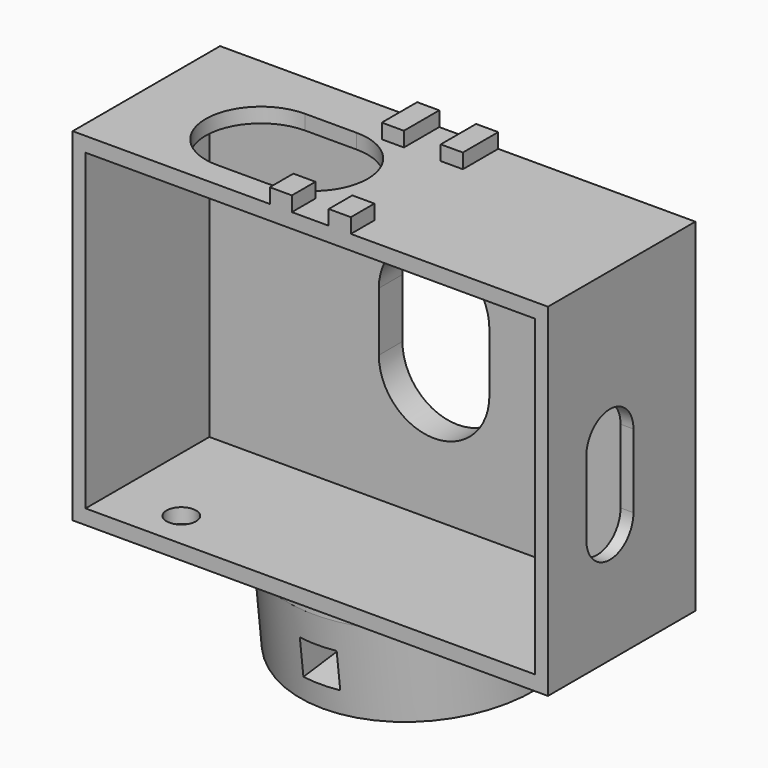
from build123d import *

# Parameters (mm, degrees)
SKETCH_W          = 64.5
SKETCH_H          = 46.5
PAD_DEPTH         = 25
SKETCH001_W       = 61
SKETCH001_H       = 42.5
POCKET_DEPTH      = 21
SKETCH002_R       = 2
POCKET001_DEPTH   = 4
POCKET002_DEPTH   = 2
POCKET003_DEPTH   = 2
SKETCH005_R       = 2
POCKET004_DEPTH   = 2
PAD001_DEPTH      = 10
PAD001_DEPTH_BACK = 2
PAD002_DEPTH      = 1
SKETCH008_R       = 5.5
PAD003_DEPTH      = 4
SKETCH009_W       = 5
SKETCH009_H       = 5
POCKET005_DEPTH   = 49.501
SKETCH010_W       = 5
SKETCH010_H       = 5
POCKET006_DEPTH   = 26.7259364864
SKETCH011_W       = 3
SKETCH011_H       = 6
SKETCH011_H_2     = 4
PAD004_DEPTH      = 2
POCKET007_DEPTH   = 5


with BuildPart() as part:
    # Sketch → Pad (new body)
    with BuildSketch(Plane.XZ):
        Rectangle(SKETCH_W, SKETCH_H)
    extrude(amount=PAD_DEPTH)

    # Sketch001 (on Face6 of Pad) → Pocket (cut)
    with BuildSketch(Plane.XZ.offset(25)):
        Rectangle(SKETCH001_W, SKETCH001_H)
    extrude(amount=-POCKET_DEPTH, mode=Mode.SUBTRACT)

    # Sketch002 (on Face11 of Pocket) → Pocket001 (cut)
    with BuildSketch(Plane.XZ.offset(4)):
        with Locations((24.5, 16.25)):
            Circle(SKETCH002_R)
    extrude(amount=-POCKET001_DEPTH, mode=Mode.SUBTRACT)

    # Sketch003 (on Face3 of Pocket001) → Pocket002 (cut)
    with BuildSketch(Plane(origin=(32.25, 0, 0), x_dir=(0, 0, 1), z_dir=(1, 0, 0))):
        with BuildLine():
            ThreePointArc((-7.25, 18.5), (-11.25, 14.5), (-7.25, 10.5))
            Line((-7.25, 10.5), (2.75, 10.5))
            ThreePointArc((2.75, 10.5), (6.75, 14.5), (2.75, 18.5))
            Line((-7.25, 18.5), (2.75, 18.5))
        make_face()
    extrude(amount=-POCKET002_DEPTH, mode=Mode.SUBTRACT)

    # Sketch004 (on Face1 of Pocket002) → Pocket003 (cut)
    with BuildSketch(Plane(origin=(0, 0, 23.25), x_dir=(-1, 0, 0), z_dir=(0, 0, 1))):
        with BuildLine():
            ThreePointArc((8.5, 21.5), (1, 14), (8.5, 6.5))
            Line((8.5, 6.5), (15.5, 6.5))
            ThreePointArc((15.5, 6.5), (23, 14), (15.5, 21.5))
            Line((8.5, 21.5), (15.5, 21.5))
        make_face()
    extrude(amount=-POCKET003_DEPTH, mode=Mode.SUBTRACT)

    # Sketch005 (on Face10 of Pocket003) → Pocket004 (cut)
    with BuildSketch(Plane(origin=(0, 0, -23.25), x_dir=(1, 0, 0), z_dir=(0, 0, -1))):
        with Locations((-21.5, 20)):
            Circle(SKETCH005_R)
    extrude(amount=-POCKET004_DEPTH, mode=Mode.SUBTRACT)

    # Sketch006 (on DatumPlane) → Pad001 (join, two sides)
    with BuildSketch(Plane(origin=(32.25, 0, -23.25), x_dir=(0, 0.9925461516, 0.1218693434), z_dir=(0, 0.1218693434, -0.9925461516))) as pad001_sk:
        with BuildLine():
            Line((0, -15), (0, -49.5))
            Line((0, -49.5), (-7, -49.5))
            ThreePointArc((-7, -15), (-24.25, -32.25), (-7, -49.5))
            Line((0, -15), (-7, -15))
        make_face()
    extrude(amount=PAD001_DEPTH)
    extrude(pad001_sk.sketch, amount=-PAD001_DEPTH_BACK)

    # Sketch007 (on Face10 of Pad001) → Pad002 (join)
    with BuildSketch(Plane(origin=(0, 0, -23.25), x_dir=(1, 0, 0), z_dir=(0, 0, -1))):
        with BuildLine():
            ThreePointArc((14.5355662094, 16.4110180962), (0, 24.4043784957), (-14.5355662094, 16.4110180962))
            Line((-14.5355662094, 16.4110180962), (14.5355662094, 16.4110180962))
        make_face()
    extrude(amount=PAD002_DEPTH)

    # Sketch008 (on Face26 of Pad002) → Pad003 (join)
    with BuildSketch(Plane(origin=(0, 4.0310354704, -32.8301493344), x_dir=(1, 0, 0), z_dir=(0, 0.1218693434, -0.9925461516))):
        with Locations((0, 12)):
            Circle(SKETCH008_R)
    extrude(amount=PAD003_DEPTH)

    # Sketch009 (on Face21 of Pad003) → Pocket005 (cut, through all)
    with BuildSketch(Plane(origin=(17.25, 0, 0), x_dir=(0, 0, 1), z_dir=(1, 0, 0))):
        with Locations((-28.5, 8.5)):
            Rectangle(SKETCH009_W, SKETCH009_H)
    extrude(amount=-POCKET005_DEPTH, mode=Mode.SUBTRACT)

    # Sketch010 (on Face11 of Pocket005) → Pocket006 (cut, through all)
    with BuildSketch(Plane(origin=(0, -2.8123420363, -0.345312182), x_dir=(1, 0, 0), z_dir=(0, 0.9925461516, 0.1218693434))):
        with Locations((0, 27.5)):
            Rectangle(SKETCH010_W, SKETCH010_H)
    extrude(amount=-POCKET006_DEPTH, mode=Mode.SUBTRACT)

    # Sketch011 (on Face1 of Pocket006) → Pad004 (join)
    with BuildSketch(Plane(origin=(0, 0, 23.25), x_dir=(-1, 0, 0), z_dir=(0, 0, 1))):
        with Locations((-4, 3)):
            Rectangle(SKETCH011_W, SKETCH011_H)
        with Locations((4, 3)):
            Rectangle(SKETCH011_W, SKETCH011_H)
        with Locations((-4, 23)):
            Rectangle(SKETCH011_W, SKETCH011_H_2)
        with Locations((4, 23)):
            Rectangle(SKETCH011_W, SKETCH011_H_2)
    extrude(amount=PAD004_DEPTH)

    # Sketch012 (on Face2 of Pad004) → Pocket007 (cut)
    with BuildSketch(Plane(origin=(0, 0, 0), x_dir=(1, 0, 0), z_dir=(0, 1, 0))):
        with BuildLine():
            ThreePointArc((7.5, 4), (0, 11.5), (-7.5, 4))
            Line((-7.5, 4), (-7.5, -4))
            ThreePointArc((-7.5, -4), (0, -11.5), (7.5, -4))
            Line((7.5, 4), (7.5, -4))
        make_face()
    extrude(amount=-POCKET007_DEPTH, mode=Mode.SUBTRACT)


solid = part.part
